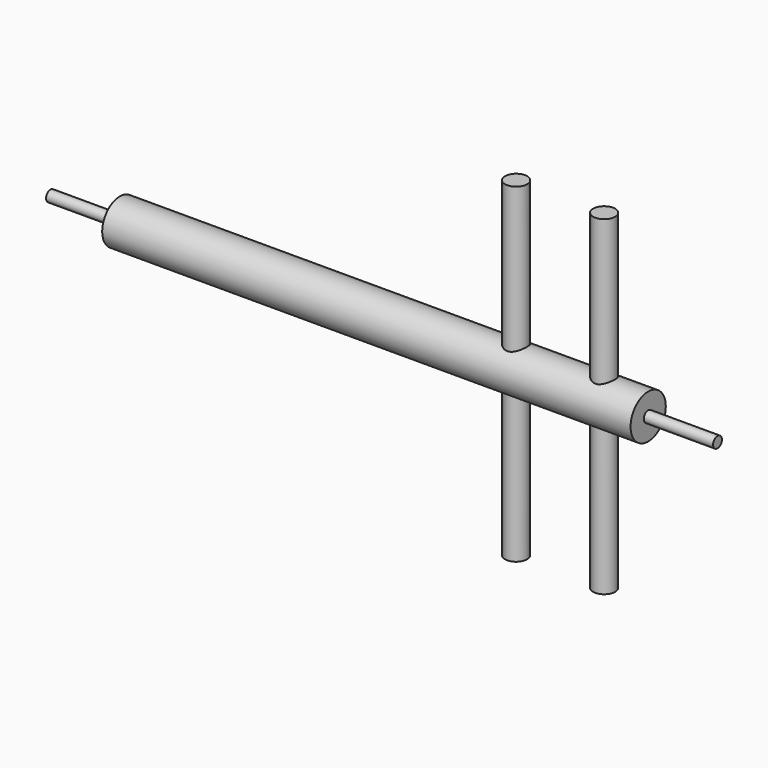
from build123d import *

# Parameters (mm, degrees)
F0_R          = 12.7
F1_DEPTH      = 304.8
F2_R          = 3.175
F3_DEPTH      = 40
F4_R          = 3.175
F5_DEPTH      = 40
F7_DEPTH      = 95.25
F7_DEPTH_BACK = 95.25


with BuildPart() as f1:
    # F0 (on Right) → F1 (new body)
    with BuildSketch(Plane.YZ):
        Circle(F0_R)
    extrude(amount=F1_DEPTH)

    # F2 (on face) → F3 (join)
    with BuildSketch(Plane(origin=(0, 0, 0), x_dir=(0, -1, 0), z_dir=(-1, 0, 0))):
        Circle(F2_R)
    extrude(amount=F3_DEPTH)

    # F4 (on face) → F5 (join)
    with BuildSketch(Plane.YZ.offset(304.8)):
        Circle(F4_R)
    extrude(amount=F5_DEPTH)

    # F6 (on Top) → F7 (join, two sides)
    with BuildSketch(Plane.XY) as f7_sk:
        with BuildLine():
            Line((228.6, 0), (234.95, 0))
            ThreePointArc((234.95, 0), (228.6, 6.35), (222.25, 0))
            Line((222.25, 0), (228.6, 0))
        make_face()
        with BuildLine():
            ThreePointArc((222.25, 0), (228.6, -6.35), (234.95, 0))
            Line((234.95, 0), (228.6, 0))
            Line((228.6, 0), (222.25, 0))
        make_face()
        with BuildLine():
            ThreePointArc((285.75, 0), (279.4, 6.35), (273.05, 0))
            ThreePointArc((273.05, 0), (279.4, -6.35), (285.75, 0))
        make_face()
    extrude(amount=F7_DEPTH)
    extrude(f7_sk.sketch, amount=-F7_DEPTH_BACK)


solid = f1.part
